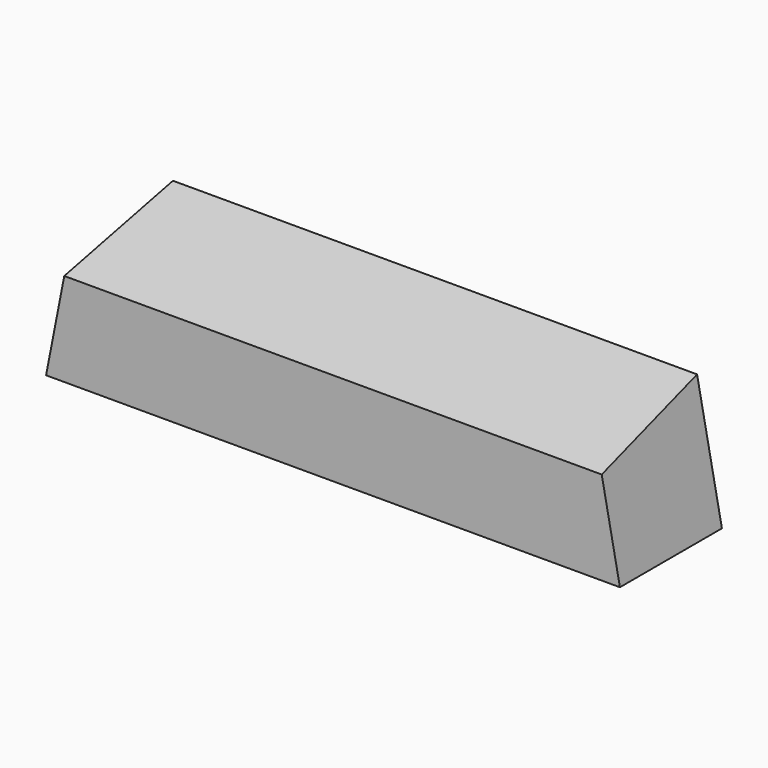
from build123d import *

# Parameters (mm, degrees)
F1_DEPTH      = 80
F3_DEPTH      = 200
F3_DEPTH_BACK = 200


with BuildPart() as f1:
    # F0 (on Front) → F1 (new body)
    with BuildSketch(Plane.XZ):
        Polygon((-180, 0), (0, 0), (180, 0), (164.415584363, 80), (0, 80), (-164.415584363, 80), align=None)
    extrude(amount=-F1_DEPTH)

    # F2 (on Right) → F3 (cut, two sides)
    with BuildSketch(Plane.YZ) as f3_sk:
        Polygon((-39.1278674848, 48.0797841114), (80, 80), (0, 80), (-39.1278674848, 80), align=None)
    extrude(amount=-F3_DEPTH, mode=Mode.SUBTRACT)
    extrude(f3_sk.sketch, amount=F3_DEPTH_BACK, mode=Mode.SUBTRACT)


solid = f1.part
